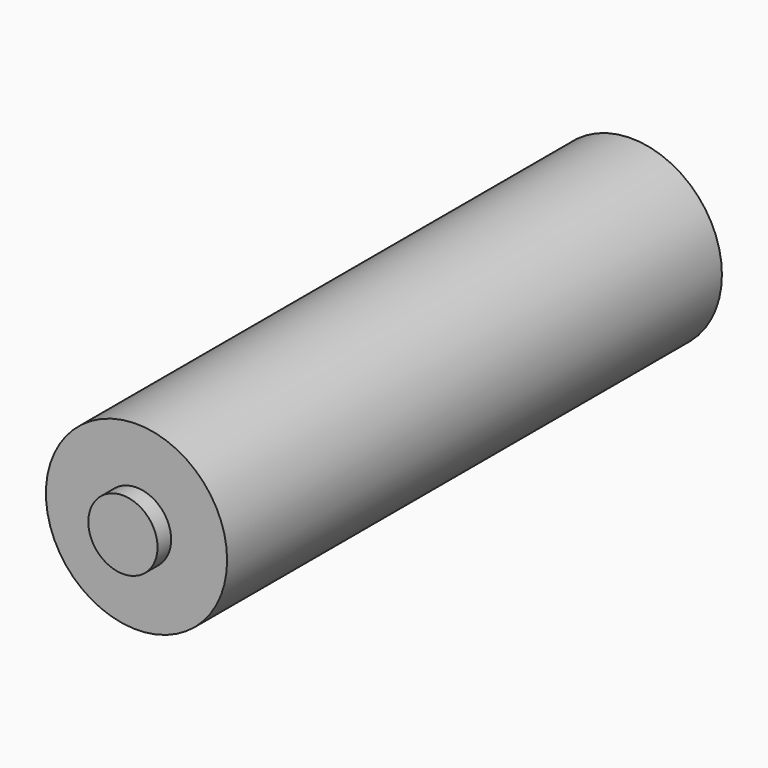
from build123d import *

# Parameters (mm, degrees)
SKETCH_R      = 7.2
PAD_DEPTH     = 50.5
SKETCH001_R   = 7.2
SKETCH001_R_2 = 2.75
POCKET_DEPTH  = 1.35


with BuildPart() as part:
    # Sketch → Pad (new body)
    with BuildSketch(Plane.XZ):
        Circle(SKETCH_R)
    extrude(amount=PAD_DEPTH)

    # Sketch001 (on Face3 of Pad) → Pocket (cut)
    with BuildSketch(Plane.XZ.offset(50.5)):
        Circle(SKETCH001_R)
        Circle(SKETCH001_R_2, mode=Mode.SUBTRACT)
    extrude(amount=-POCKET_DEPTH, mode=Mode.SUBTRACT)


solid = part.part
